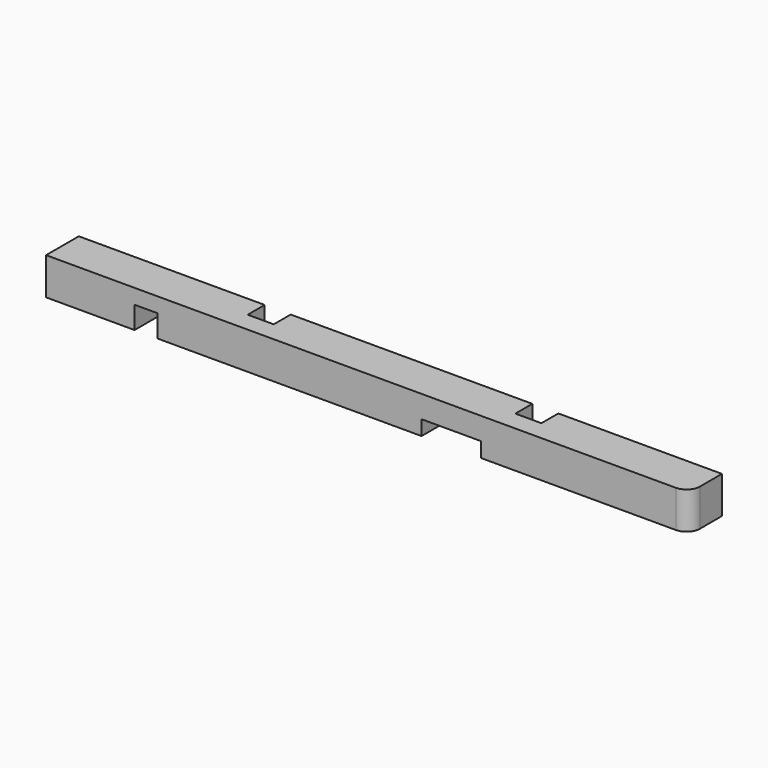
from build123d import *

# Parameters (mm, degrees)
PAD013_DEPTH    = 5
SKETCH019_W     = 8
SKETCH019_H     = 5
POCKET001_DEPTH = 10
SKETCH020_W     = 3.1
SKETCH020_H     = 5
POCKET002_DEPTH = 10


with BuildPart() as part:
    # Sketch018 → Pad013 (new body)
    with BuildSketch(Plane.XY):
        with BuildLine():
            Line((-43.25, 0), (41.45, 0))
            ThreePointArc((41.45, 0), (42.722792, 0.527208), (43.25, 1.8))
            Line((43.25, 1.8), (43.25, 5.5))
            Line((43.25, 5.5), (21.25, 5.5))
            Line((21.25, 5.5), (21.25, 2.65))
            Line((21.25, 2.65), (17.75, 2.65))
            Line((17.75, 2.65), (17.75, 5.5))
            Line((-14.75, 5.5), (17.75, 5.5))
            Line((-14.75, 2.65), (-14.75, 5.5))
            Line((-18.25, 2.65), (-14.75, 2.65))
            Line((-18.25, 5.5), (-18.25, 2.65))
            Line((-43.25, 5.5), (-18.25, 5.5))
            Line((-43.25, 5.5), (-43.25, 0))
        make_face()
    extrude(amount=PAD013_DEPTH)

    # Sketch019 → Pocket001 (cut)
    with BuildSketch(Plane.XZ):
        with Locations((11.25, -0.5)):
            Rectangle(SKETCH019_W, SKETCH019_H)
    extrude(amount=-POCKET001_DEPTH, mode=Mode.SUBTRACT)

    # Sketch020 → Pocket002 (cut)
    with BuildSketch(Plane.XZ):
        with Locations((-29.8, 0.5)):
            Rectangle(SKETCH020_W, SKETCH020_H)
    extrude(amount=-POCKET002_DEPTH, mode=Mode.SUBTRACT)


with BuildPart() as part_1:
    # Body010 placement: moved
    add(part.part.moved(Location((0, 0, -102))))


solid = part_1.part
